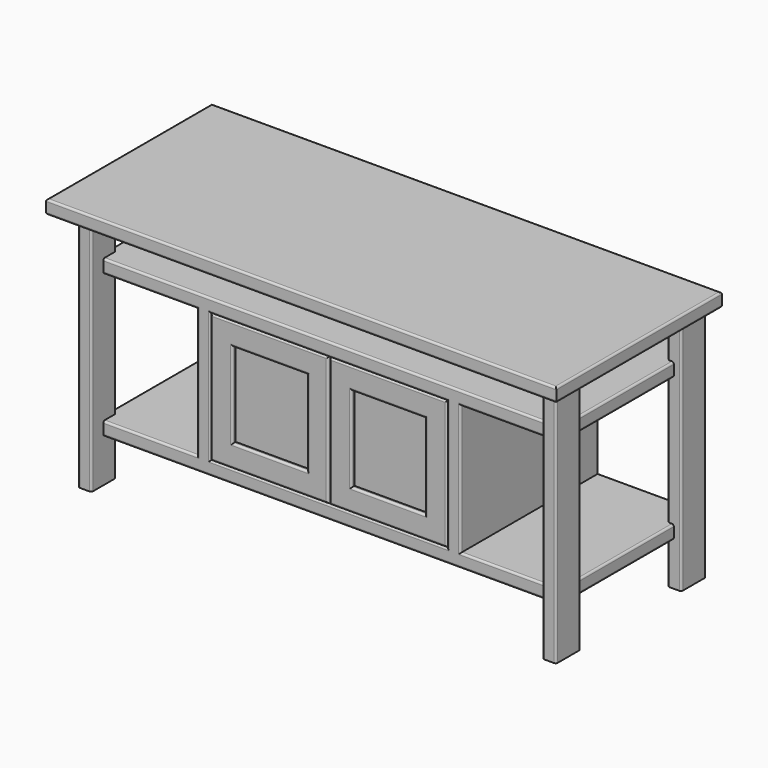
from build123d import *

# Parameters (mm, degrees)
F0_W      = 609.6
F0_H      = 333.375
F1_DEPTH  = 444.5
F0_W_2    = 1314.45
F0_H_2    = 34.925
F2_DEPTH  = 533.4
F3_W      = 34.925
F3_H      = 79.375
F4_DEPTH  = 625.475
F6_DEPTH  = 6.35
F8_W      = 303.2125
F8_H      = 333.375
F8_W_2    = 192.0875
F8_H_2    = 219.075
F9_DEPTH  = 34.925
F8_W_3    = 188.9125
F10_DEPTH = 9.525
F11_R     = 5.08
F12_R     = 5.08
F12_2_R   = 5.08


with BuildPart() as f1:
    # F0 (on Front) → F1 (new body)
    with BuildSketch(Plane.XZ):
        Polygon((596.9, 479.425), (596.9, 514.35), (-596.9, 514.35), (-596.9, 479.425), (-339.725, 479.425), (-339.725, 146.05), (-596.9, 146.05), (-596.9, 111.125), (596.9, 111.125), (596.9, 146.05), (339.725, 146.05), (339.725, 479.425), align=None)
        with Locations((0, 312.7375)):
            Rectangle(F0_W, F0_H, mode=Mode.SUBTRACT)
    extrude(amount=F1_DEPTH)



with BuildPart() as f2:
    # F0 (on Front) → F2 (new body)
    with BuildSketch(Plane.XZ):
        with Locations((0, 642.9375)):
            Rectangle(F0_W_2, F0_H_2)
    extrude(amount=F2_DEPTH)


with BuildPart() as f1_1:
    add(f1.part)

    add(f2.part)  # F4 merges F2
    # F3 (on Top) → F4 (join, through all)
    with BuildSketch(Plane.XY):
        with Locations((-598.4875, -39.6875)):
            Rectangle(F3_W, F3_H)
        with Locations((-598.4875, -442.9125)):
            Rectangle(F3_W, F3_H)
        with Locations((598.4875, -39.6875)):
            Rectangle(F3_W, F3_H)
        with Locations((598.4875, -442.9125)):
            Rectangle(F3_W, F3_H)
    extrude(amount=F4_DEPTH)


with BuildPart() as f6:
    # F5 (on face) → F6 (new body)
    with BuildSketch(Plane(origin=(0, 0, 0), x_dir=(-1, 0, 0), z_dir=(0, 1, 0))):
        with BuildLine():
            Line((311.15, 492.125), (-311.15, 492.125))
            ThreePointArc((-311.15, 492.125), (-315.6401280605, 490.2651280605), (-317.5, 485.775))
            Line((-317.5, 485.775), (-317.5, 139.7))
            ThreePointArc((-317.5, 139.7), (-315.6401280605, 135.2098719395), (-311.15, 133.35))
            Line((-311.15, 133.35), (311.15, 133.35))
            ThreePointArc((311.15, 133.35), (315.6401280605, 135.2098719395), (317.5, 139.7))
            Line((317.5, 139.7), (317.5, 485.775))
            ThreePointArc((317.5, 485.775), (315.6401280605, 490.2651280605), (311.15, 492.125))
        make_face()
    extrude(amount=-F6_DEPTH)


with BuildPart() as f1_2:
    add(f1_1.part)

    # F7: cut F6
    add(f6.part, mode=Mode.SUBTRACT)

    # F11
    f11_edges = [f1_2.edges().sort_by_distance(p)[0] for p in [
        (657.225, -266.7, 660.4),
        (-657.225, -266.7, 660.4),
        (0, 0, 660.4),
        (0, -533.4, 660.4),
        (0, -533.4, 625.475),
        (-657.225, -266.7, 625.475),
        (657.225, -266.7, 625.475),
        (0, -444.5, 514.35),
        (460.375, -444.5, 479.425),
        (596.9, -241.3, 514.35),
        (596.9, -241.3, 479.425),
        (0, 0, 514.35),
        (460.375, 0, 479.425),
        (-460.375, 0, 479.425),
        (-596.9, -241.3, 514.35),
        (-615.95, -79.375, 312.7375),
        (-615.95, 0, 312.7375),
        (-615.95, -403.225, 312.7375),
        (-581.025, -482.6, 312.7375),
        (-615.95, -482.6, 312.7375),
        (581.025, -482.6, 312.7375),
        (615.95, -482.6, 312.7375),
        (615.95, -403.225, 312.7375),
        (615.95, -79.375, 312.7375),
        (615.95, 0, 312.7375),
        (581.025, 0, 312.7375),
        (460.375, 0, 146.05),
        (0, 0, 111.125),
        (339.725, 0, 312.7375),
        (581.025, -79.375, 569.9125),
        (581.025, -79.375, 312.7375),
        (581.025, -79.375, 55.5625),
        (581.025, 0, 55.5625),
        (581.025, 0, 569.9125),
        (-460.375, 0, 146.05),
        (-339.725, 0, 312.7375),
        (0, 0, 625.475),
        (-636.5875, 0, 625.475),
        (636.5875, 0, 625.475),
        (-581.025, 0, 312.7375),
        (-581.025, -79.375, 312.7375),
        (-581.025, -79.375, 569.9125),
        (-581.025, 0, 569.9125),
        (-581.025, -403.225, 312.7375),
        (-581.025, -403.225, 569.9125),
        (-581.025, -403.225, 55.5625),
        (-581.025, 0, 55.5625),
        (-581.025, -79.375, 55.5625),
        (581.025, -403.225, 569.9125),
        (581.025, -403.225, 312.7375),
        (581.025, -403.225, 55.5625),
        (0, -444.5, 111.125),
        (460.375, -444.5, 146.05),
        (339.725, -444.5, 312.7375),
        (-339.725, -444.5, 312.7375),
        (-460.375, -444.5, 479.425),
        (-460.375, -444.5, 146.05),
        (596.9, -241.3, 146.05),
        (596.9, -241.3, 111.125),
        (-596.9, -241.3, 146.05),
        (-596.9, -241.3, 111.125),
        (-304.8, -444.5, 312.7375),
        (0, -444.5, 479.425),
        (304.8, -444.5, 312.7375),
        (0, -444.5, 146.05),
    ]]
    fillet(f11_edges, radius=F11_R)


with BuildPart() as f9:
    # F8 (on face) → F9 (new body)
    with BuildSketch(Plane.XZ.offset(444.5)):
        with Locations((-153.19375, 312.7375)):
            Rectangle(F8_W, F8_H)
        with Locations((-151.60625, 312.7375)):
            Rectangle(F8_W_2, F8_H_2, mode=Mode.SUBTRACT)
        with Locations((-151.60625, 312.7375)):
            Rectangle(F8_W_2, F8_H_2)
    extrude(amount=-F9_DEPTH)


with BuildPart() as f9b:
    # F8 (on face) → F9, piece 2 (new body)
    with BuildSketch(Plane.XZ.offset(444.5)):
        with Locations((153.19375, 312.7375)):
            Rectangle(F8_W, F8_H)
        with Locations((153.19375, 312.7375)):
            Rectangle(F8_W_3, F8_H_2, mode=Mode.SUBTRACT)
        with Locations((153.19375, 312.7375)):
            Rectangle(F8_W_3, F8_H_2)
    extrude(amount=-F9_DEPTH)


with BuildPart() as f10_tool:
    # F8 (on face) → F10 (new body)
    with BuildSketch(Plane.XZ.offset(444.5)):
        with Locations((-151.60625, 312.7375)):
            Rectangle(F8_W_2, F8_H_2)
        with Locations((153.19375, 312.7375)):
            Rectangle(F8_W_3, F8_H_2)
    extrude(amount=-F10_DEPTH)


with BuildPart() as f9_1:
    add(f9.part)

    # F10: cut by f10_tool
    add(f10_tool.part, mode=Mode.SUBTRACT)

    # F12
    f12_edges = [f9_1.edges().sort_by_distance(p)[0] for p in [
        (-153.19375, -444.5, 479.425),
        (-1.5875, -444.5, 312.7375),
        (-304.8, -444.5, 312.7375),
        (-153.19375, -444.5, 146.05),
        (-151.60625, -444.5, 422.275),
        (-247.65, -444.5, 312.7375),
        (-151.60625, -444.5, 203.2),
        (-55.5625, -444.5, 312.7375),
        (-153.19375, -409.575, 479.425),
        (-304.8, -409.575, 312.7375),
        (-153.19375, -409.575, 146.05),
        (-1.5875, -409.575, 312.7375),
    ]]
    fillet(f12_edges, radius=F12_R)


with BuildPart() as f9b_1:
    add(f9b.part)

    # F10: cut by f10_tool
    add(f10_tool.part, mode=Mode.SUBTRACT)

    # F12#2
    f12_2_edges = [f9b_1.edges().sort_by_distance(p)[0] for p in [
        (1.5875, -444.5, 312.7375),
        (153.19375, -444.5, 479.425),
        (153.19375, -444.5, 146.05),
        (304.8, -444.5, 312.7375),
        (153.19375, -444.5, 422.275),
        (58.7375, -444.5, 312.7375),
        (153.19375, -444.5, 203.2),
        (247.65, -444.5, 312.7375),
        (1.5875, -409.575, 312.7375),
        (153.19375, -409.575, 146.05),
        (304.8, -409.575, 312.7375),
        (153.19375, -409.575, 479.425),
    ]]
    fillet(f12_2_edges, radius=F12_2_R)


solid = Compound([f6.part, f1_2.part, f9_1.part, f9b_1.part])
